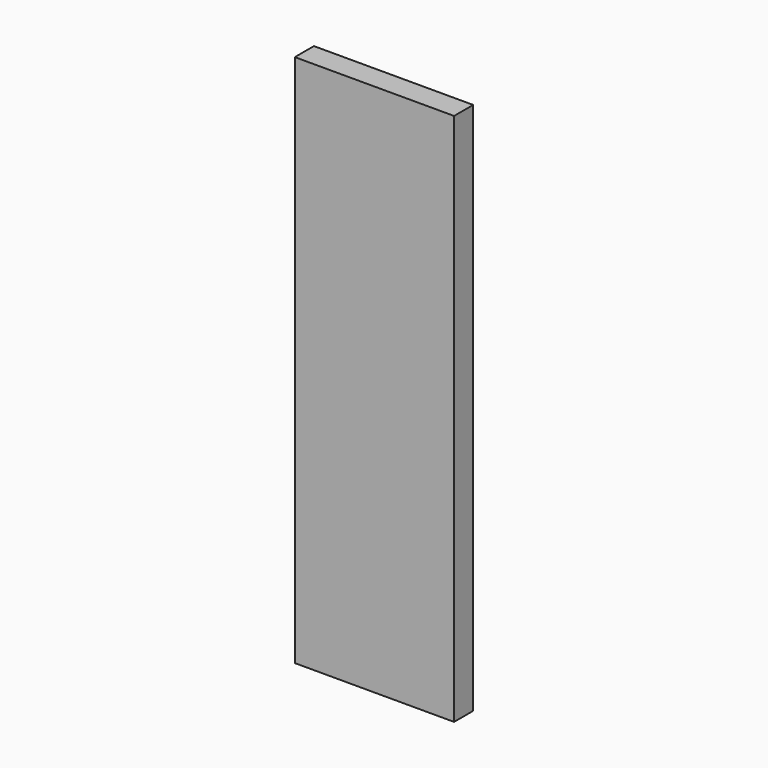
from build123d import *

# Parameters (mm, degrees)
SKETCH_W  = 200
SKETCH_H  = 670
PAD_DEPTH = 30


with BuildPart() as part:
    # Sketch → Pad (new body)
    with BuildSketch(Plane.XZ):
        with Locations((100, 335)):
            Rectangle(SKETCH_W, SKETCH_H)
    extrude(amount=PAD_DEPTH)


solid = part.part
